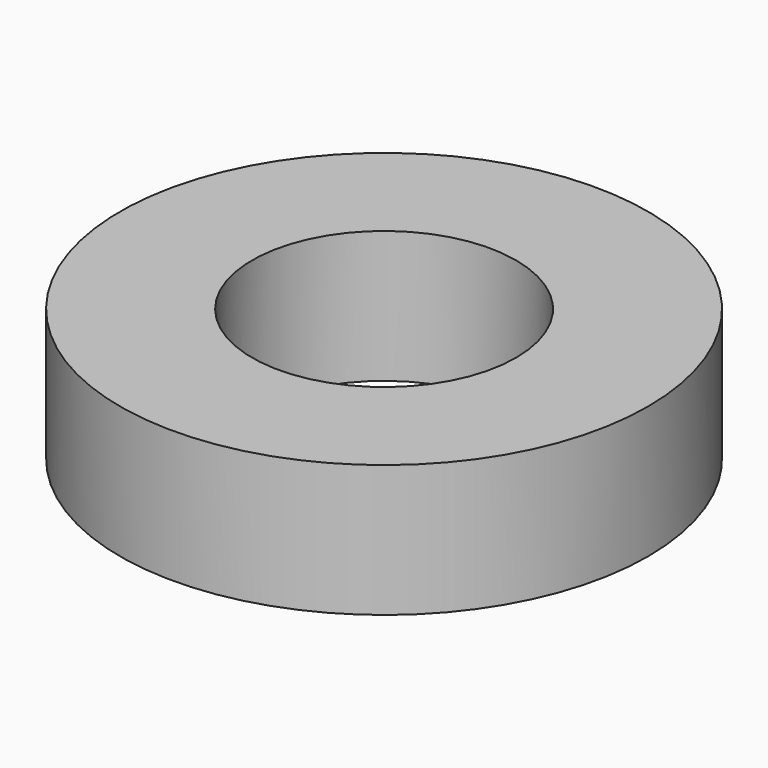
from build123d import *

# Parameters (mm, degrees)
CYLINDER359_R     = 2
CYLINDER359_DEPTH = 2
CYLINDER360_R     = 4
CYLINDER360_DEPTH = 2


with BuildPart() as cylinder359:
    # Cylinder359 → Cylinder359 (new body)
    with BuildSketch(Plane.XY):
        Circle(CYLINDER359_R)
    extrude(amount=CYLINDER359_DEPTH)


with BuildPart() as spacer6:
    # Cylinder360 → Cylinder360 (new body)
    with BuildSketch(Plane.XY):
        Circle(CYLINDER360_R)
    extrude(amount=CYLINDER360_DEPTH)

    # Cut374: cut Cylinder359
    add(cylinder359.part, mode=Mode.SUBTRACT)


with BuildPart() as spacer6_1:
    # Cut374 placement: moved
    add(spacer6.part.moved(Location((33, 71, 57))))


solid = spacer6_1.part
